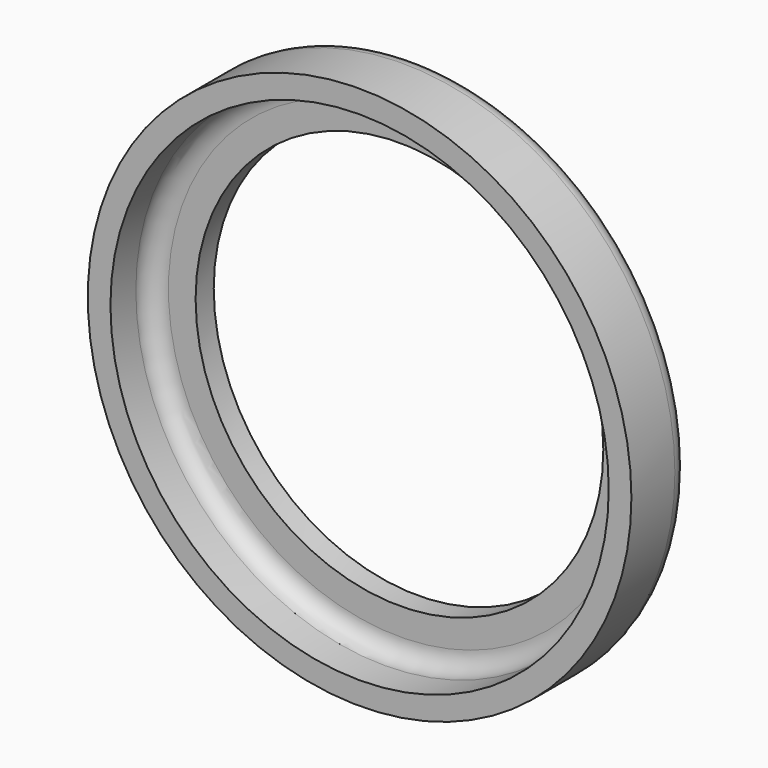
from build123d import *

# Parameters (mm, degrees)
F0_R     = 30
F1_DEPTH = 8
F2_T     = -2.5
F3_R     = 22.5
F4_DEPTH = 25
F5_R     = 2
F6_R     = 2


with BuildPart() as f1:
    # F0 (on Front) → F1 (new body)
    with BuildSketch(Plane.XZ):
        Circle(F0_R)
    extrude(amount=F1_DEPTH)

    # F2
    f2_openings = [f1.faces().sort_by_distance(p)[0] for p in [
        (0, -8, 0),
    ]]
    offset(amount=F2_T, openings=f2_openings)

    # F3 (on face) → F4 (cut)
    with BuildSketch(Plane(origin=(0, 0, 0), x_dir=(-1, 0, 0), z_dir=(0, 1, 0))):
        Circle(F3_R)
    extrude(amount=-F4_DEPTH, mode=Mode.SUBTRACT)

    # F5
    f5_edges = [f1.edges().sort_by_distance(p)[0] for p in [
        (-30, 0, 0),
    ]]
    fillet(f5_edges, radius=F5_R)

    # F6
    f6_edges = [f1.edges().sort_by_distance(p)[0] for p in [
        (-27.5, -2.5, 0),
    ]]
    fillet(f6_edges, radius=F6_R)


solid = f1.part
